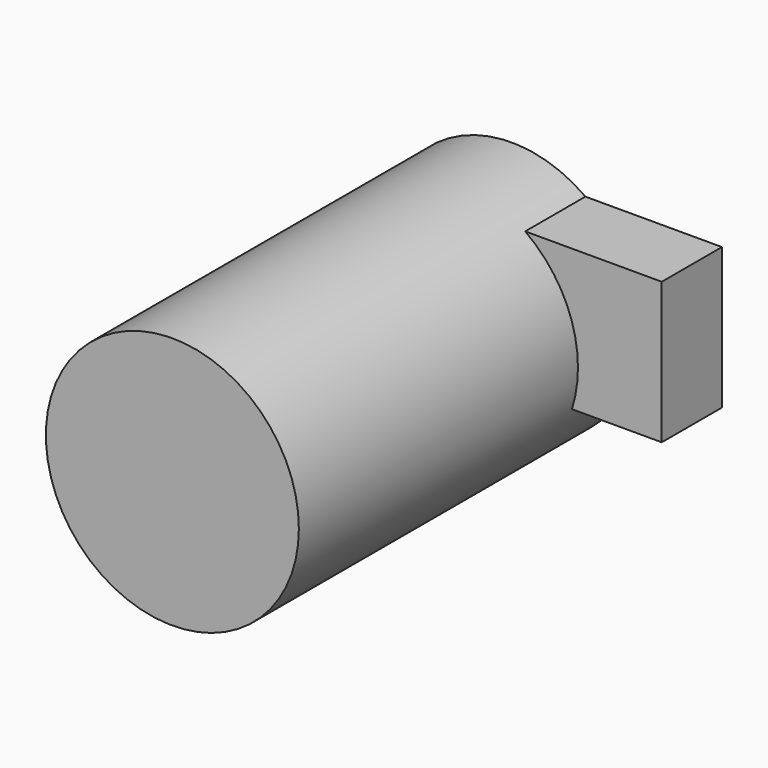
from build123d import *

# Parameters (mm, degrees)
F0_R      = 42.713148629
F1_DEPTH  = 66.9949576259
F1_FACE_R = 42.713148629
F2_W      = 52.3607060313
F2_H      = 47.7277636528
F3_DEPTH  = 25.4
F4_DEPTH  = 25.4
F5_DEPTH  = 25.4
F6_DEPTH  = 25.4


with BuildPart() as f1:
    # F0 (on Front) → F1 (new body)
    with BuildSketch(Plane.XZ):
        with Locations((6.7541077733, 13.033375144)):
            Circle(F0_R)
    extrude(amount=F1_DEPTH)

    # F1_face (on face) + F2 (on Front) → F3 (join)
    with BuildSketch(Plane(origin=(6.7541077733, -66.9949576259, 13.033375144), x_dir=(1, 0, 0), z_dir=(0, -1, 0))):
        Circle(F1_FACE_R)
    with BuildSketch(Plane.XZ):
        with Locations((26.1803530157, 23.8638818264)):
            Rectangle(F2_W, F2_H)
    extrude(amount=F3_DEPTH)

    # F4 (add): a face of the model
    f4_faces = [f1.faces().sort_by_distance(p)[0] for p in [
        (52.3607060313, -12.7, 23.8638818264),
    ]]
    extrude(f4_faces, amount=F4_DEPTH)

    # F5 (add): a face of the model
    f5_faces = [f1.faces().sort_by_distance(p)[0] for p in [
        (6.7541077733, -92.3949576259, 13.033375144),
    ]]
    extrude(f5_faces, amount=F5_DEPTH)

    # F6 (add): a face of the model
    f6_faces = [f1.faces().sort_by_distance(p)[0] for p in [
        (6.7541077733, -117.7949576259, 13.033375144),
    ]]
    extrude(f6_faces, amount=F6_DEPTH)


solid = f1.part
